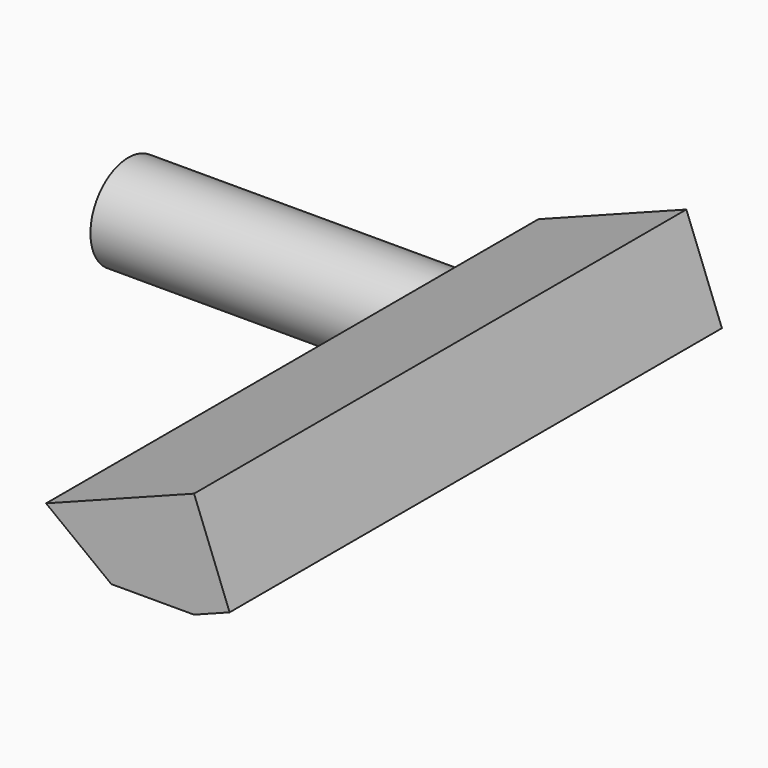
from build123d import *

# Parameters (mm, degrees)
F1_R     = 17.586867
F2_DEPTH = 139.7
F3_DEPTH = 228.346


with BuildPart() as f2:
    # F1 (on Right) → F2 (new body)
    with BuildSketch(Plane.YZ):
        with Locations((-41.434839, 48.546314)):
            Circle(F1_R)
    extrude(amount=F2_DEPTH)

    # F0 (on Front) → F3 (join)
    with BuildSketch(Plane.XZ):
        Polygon((173.909366, 88.873066), (119.005956, 67.850798), (143.216059, 49.334605), (173.909366, 49.334605), (187.112732, 54.390115), align=None)
    extrude(amount=F3_DEPTH)


solid = f2.part
